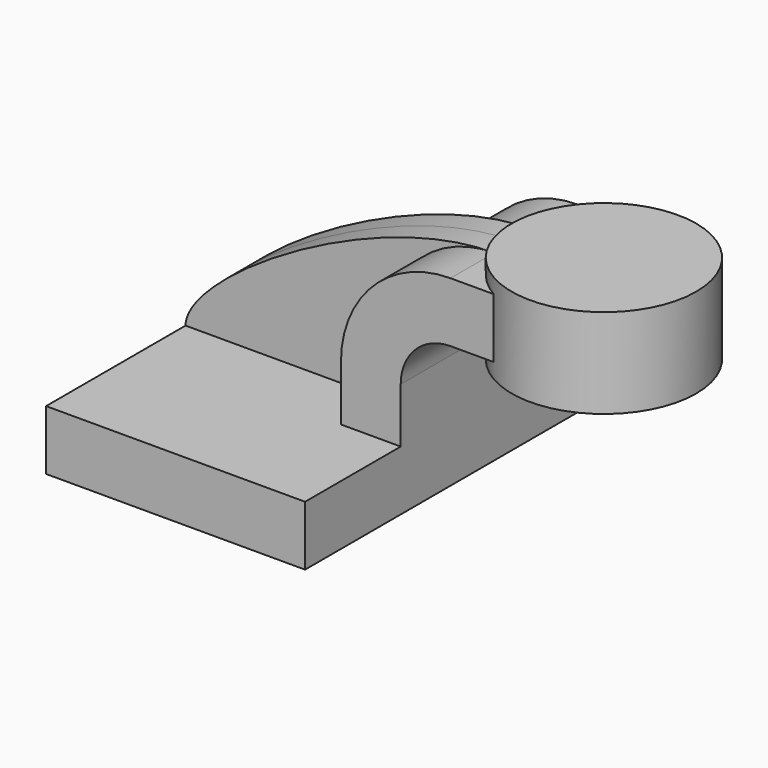
from build123d import *

# Parameters (mm, degrees)
F1_DEPTH = 63.5
F0_W     = 21.3821388448
F0_H     = 19.05
F2_DEPTH = 25.4
F3_DEPTH = 7.9375


with BuildPart() as f1:
    # F0 (on Front) → F1 (new body, symmetric)
    with BuildSketch(Plane.XZ):
        Polygon((-41.275, 9.525), (-41.275, -9.525), (41.275, -9.525), (41.275, 9.525), (22.225, 9.525), align=None)
    extrude(amount=F1_DEPTH, both=True)

    # F0 (on Front) → F2 (join, symmetric)
    with BuildSketch(Plane.XZ):
        with BuildLine():
            Line((22.225, 9.525), (41.275, 9.525))
            Line((41.275, 9.525), (41.275, 27.0002))
            ThreePointArc((41.275, 27.0002), (45.9246798487, 38.2255201513), (57.15, 42.8752))
            Line((57.15, 42.8752), (64.3428611552, 42.8752))
            Line((64.3428611552, 42.8752), (64.3428611552, 61.9252))
            Line((64.3428611552, 61.9252), (57.15, 61.9252))
            ThreePointArc((57.15, 61.9252), (32.4542956671, 51.6959043329), (22.225, 27.0002))
            Line((22.225, 27.0002), (22.225, 9.525))
        make_face()
        with Locations((75.0339305776, 52.4002)):
            Rectangle(F0_W, F0_H)
    extrude(amount=F2_DEPTH, both=True)

    # F0 (on Front) → F3 (join, symmetric)
    with BuildSketch(Plane.XZ):
        with BuildLine():
            add(Edge.make_bspline(
                [(-41.275, 9.525), (-41.1300323904, 24.9551124871), (18.149998039, 62.0910935104), (57.15, 61.9252)],
                knots=[0, 0, 0, 0, 111.5045361635, 111.5045361635, 111.5045361635, 111.5045361635], degree=3))
            Line((-41.275, 9.525), (22.225, 9.525))
            Line((22.225, 9.525), (22.225, 27.0002))
            ThreePointArc((22.225, 27.0002), (32.4542956671, 51.6959043329), (57.15, 61.9252))
        make_face()
    extrude(amount=F3_DEPTH, both=True)

    # F0 (on Front) → F4 (revolve)
    with BuildSketch(Plane.XZ):
        Polygon((85.725, 66.675), (85.725, 61.9252), (85.725, 42.8752), (85.725, 38.1), (115.1428611552, 38.1), (115.1428611552, 66.675), align=None)
    revolve(axis=Axis((85.725, 0, 52.3875), (0, 0, 1)))


solid = f1.part
